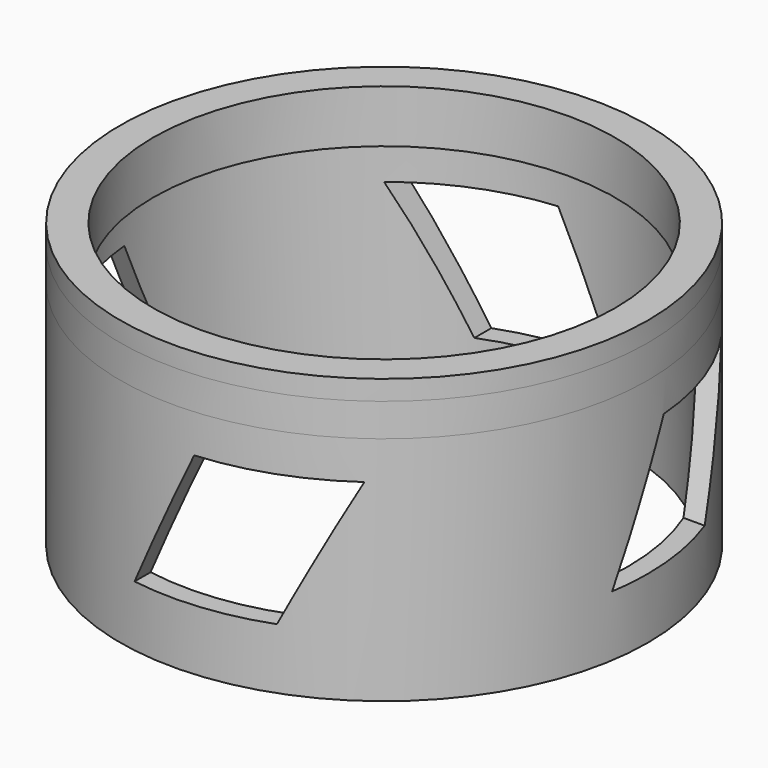
from build123d import *

# Parameters (mm, degrees)
F0_R     = 40
F0_R_2   = 37
F1_DEPTH = 5
F2_DEPTH = 35
F3_R     = 40
F3_R_2   = 35
F4_DEPTH = 8
F7_DEPTH = 35
F9_COUNT = 4


with BuildPart() as f1:
    # F0 (on Top) → F1 (new body)
    with BuildSketch(Plane.XY):
        Circle(F0_R)
        Circle(F0_R_2, mode=Mode.SUBTRACT)
    extrude(amount=F1_DEPTH)

    # F0 (on Top) → F2 (join)
    with BuildSketch(Plane.XY):
        Circle(F0_R)
        Circle(F0_R_2, mode=Mode.SUBTRACT)
    extrude(amount=-F2_DEPTH)

    # F3 (on Top) → F4 (join)
    with BuildSketch(Plane.XY):
        Circle(F3_R)
        Circle(F3_R_2, mode=Mode.SUBTRACT)
    extrude(amount=F4_DEPTH)

    # F9: F7 ×4 about axis
    f9_axis = Axis((0, 0, -20.4015299678), (0, 0, -1))


with BuildPart() as f7:
    # F6 (on offset) → F7 (new body)
    with BuildSketch(Plane.XZ.offset(50)):
        Polygon((3.1193340375, -5.8), (-6.2068191256, -25.8), (13.7931808744, -25.8), (23.1193340375, -5.8), align=None)
    extrude(amount=-F7_DEPTH)


with BuildPart() as f1_1:
    add(f1.part)
    for i in range(1, F9_COUNT):
        add(f7.part.rotate(f9_axis, i * 360 / F9_COUNT), mode=Mode.SUBTRACT)

    # F9#seed: cut F7
    add(f7.part, mode=Mode.SUBTRACT)


solid = f1_1.part
